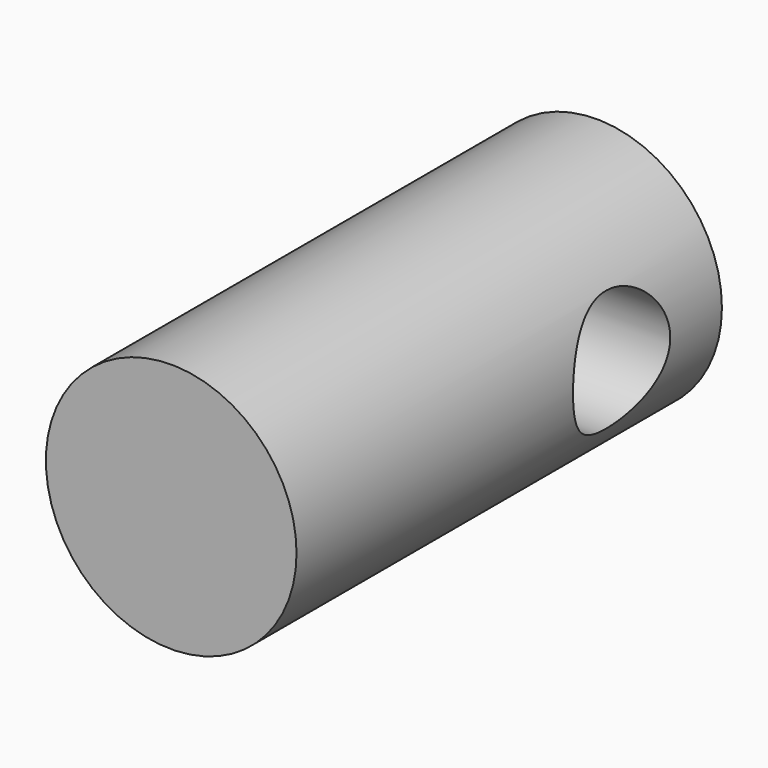
from build123d import *

# Parameters (mm, degrees)
F0_R     = 8.25
F1_DEPTH = 35
F2_R     = 4
F3_DEPTH = 19.2


with BuildPart() as f1:
    # F0 (on Front) → F1 (new body)
    with BuildSketch(Plane.XZ):
        Circle(F0_R)
    extrude(amount=F1_DEPTH)

    # F2 (on Right) → F3 (cut, symmetric)
    with BuildSketch(Plane.YZ):
        with Locations((-8.250779, 0)):
            Circle(F2_R)
    extrude(amount=F3_DEPTH, both=True, mode=Mode.SUBTRACT)


solid = f1.part
